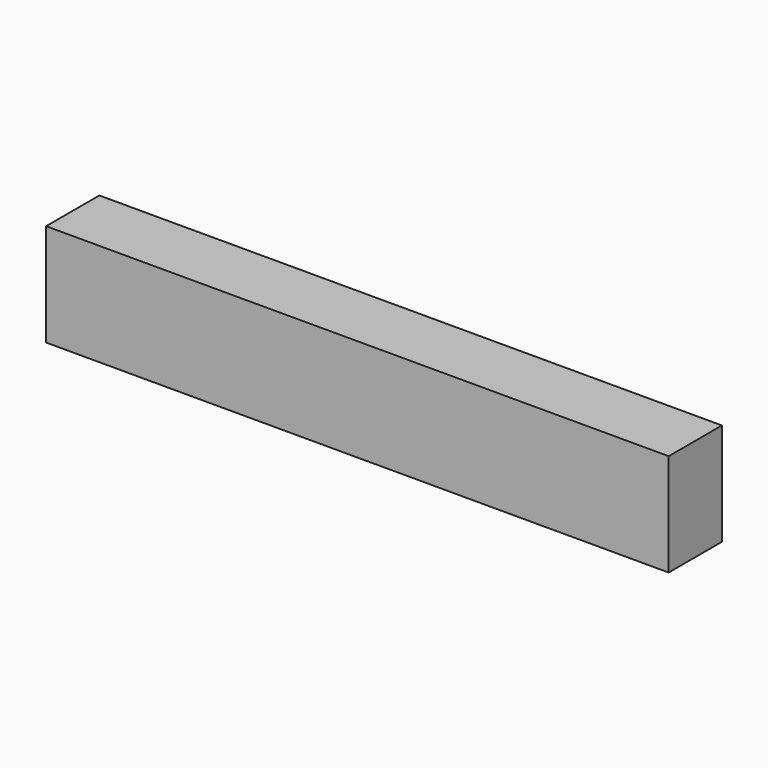
from build123d import *

# Parameters (mm, degrees)
F2_W     = 233.913794
F2_H     = 38.484163
F3_DEPTH = 12.5
F4_W     = 194.459587
F4_H     = 27.622782
F5_DEPTH = 5


with BuildPart() as f3:
    # F2 (on Front) → F3 (new body, symmetric)
    with BuildSketch(Plane.XZ):
        with Locations((-0.478029, -60.131501)):
            Rectangle(F2_W, F2_H)
    extrude(amount=F3_DEPTH, both=True)

    # F4 (on face) → F5 (cut)
    with BuildSketch(Plane(origin=(0, 12.5, 0), x_dir=(-1, 0, 0), z_dir=(0, 1, 0))):
        with Locations((-0.471421, -60.297381)):
            Rectangle(F4_W, F4_H)
    extrude(amount=-F5_DEPTH, mode=Mode.SUBTRACT)


solid = f3.part
